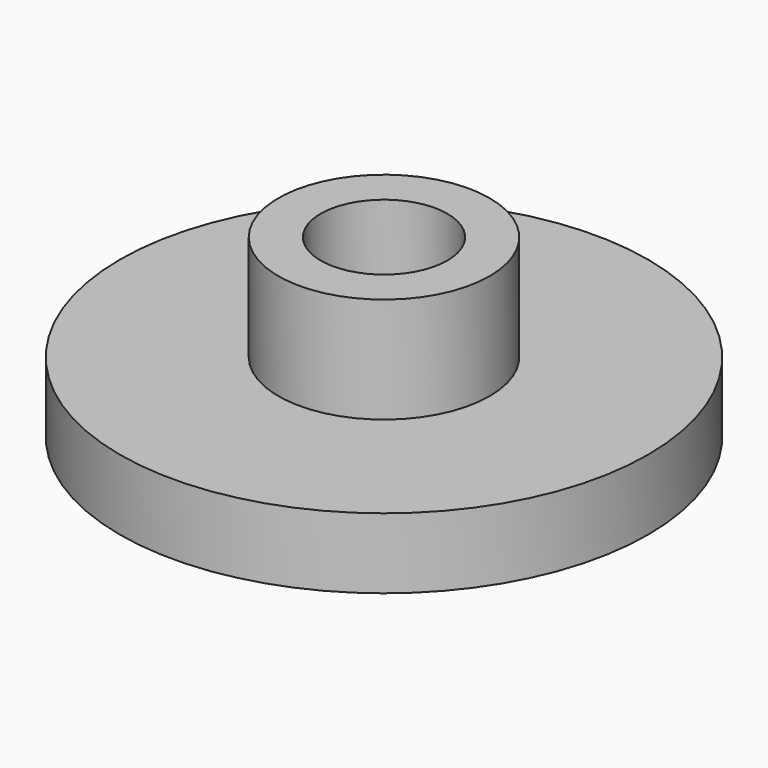
from build123d import *

# Parameters (mm, degrees)
TUBE_R            = 1.5
TUBE_R_2          = 0.6
TUBE_DEPTH        = 2
CYLINDER_R        = 0.36
CYLINDER_DEPTH    = 10
CYLINDER001_R     = 1.5
CYLINDER001_DEPTH = 1


with BuildPart() as tube:
    # Tube → Tube (new body)
    with BuildSketch(Plane.XY.offset(0.4)):
        Circle(TUBE_R)
        Circle(TUBE_R_2, mode=Mode.SUBTRACT)
    extrude(amount=TUBE_DEPTH)


with BuildPart() as cylinder:
    # Cylinder → Cylinder (new body)
    with BuildSketch(Plane.XY):
        Circle(CYLINDER_R)
    extrude(amount=CYLINDER_DEPTH)


with BuildPart() as bushingfront:
    # Cylinder001 → Cylinder001 (new body)
    with BuildSketch(Plane.XY):
        Circle(CYLINDER001_R)
    extrude(amount=CYLINDER001_DEPTH)

    # Cut: cut Cylinder
    add(cylinder.part, mode=Mode.SUBTRACT)

    # Cut001: cut Tube
    add(tube.part, mode=Mode.SUBTRACT)


solid = bushingfront.part
